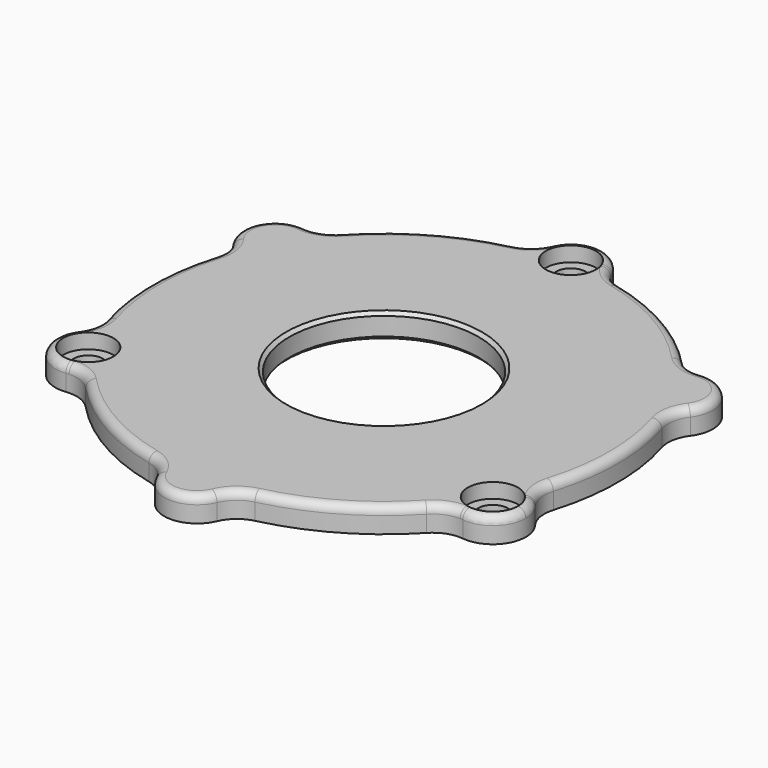
from build123d import *

# Parameters (mm, degrees)
SKETCH020_R         = 11.5
PAD005_DEPTH        = 3
HOLE004_D           = 3.6
HOLE004_CBORE_D     = 6.1
HOLE004_CBORE_DEPTH = 1.8
FILLET001_R         = 1
CHAMFER008_SIZE     = 0.4


with BuildPart() as part:
    # Sketch020 → Pad005 (new body)
    with BuildSketch(Plane.XY):
        with BuildLine():
            ThreePointArc((3.675973, 29.952093), (0, 32.375), (-3.675973, 29.952093))
            ThreePointArc((-6.443598, 27.633687), (-4.783337, 28.462877), (-3.675973, 29.952093))
            ThreePointArc((-6.443598, 27.633687), (-14.1875, 24.573471), (-20.709676, 19.397163))
            ThreePointArc((-24.101286, 18.159532), (-22.257905, 18.37393), (-20.709676, 19.397163))
            ThreePointArc((-24.101286, 18.159532), (-28.037572, 16.1875), (-27.77726, 11.79256))
            ThreePointArc((-27.153274, 8.236524), (-27.041243, 10.088947), (-27.77726, 11.79256))
            ThreePointArc((-27.153274, 8.236524), (-28.375, 0), (-27.153274, -8.236524))
            ThreePointArc((-27.77726, -11.79256), (-27.041243, -10.088947), (-27.153274, -8.236524))
            ThreePointArc((-27.77726, -11.79256), (-28.037572, -16.1875), (-24.101286, -18.159532))
            ThreePointArc((-20.709676, -19.397163), (-22.257905, -18.37393), (-24.101286, -18.159532))
            ThreePointArc((-20.709676, -19.397163), (-14.1875, -24.573471), (-6.443598, -27.633687))
            ThreePointArc((-3.675973, -29.952093), (-4.783337, -28.462877), (-6.443598, -27.633687))
            ThreePointArc((-3.675973, -29.952093), (0, -32.375), (3.675973, -29.952093))
            ThreePointArc((6.443598, -27.633687), (4.783337, -28.462877), (3.675973, -29.952093))
            ThreePointArc((6.443598, -27.633687), (14.1875, -24.573471), (20.709676, -19.397163))
            ThreePointArc((24.101286, -18.159532), (22.257905, -18.37393), (20.709676, -19.397163))
            ThreePointArc((24.101286, -18.159532), (28.037572, -16.1875), (27.77726, -11.79256))
            ThreePointArc((27.153274, -8.236524), (27.041243, -10.088947), (27.77726, -11.79256))
            ThreePointArc((27.153274, -8.236524), (28.375, 0), (27.153274, 8.236524))
            ThreePointArc((27.77726, 11.79256), (27.041243, 10.088947), (27.153274, 8.236524))
            ThreePointArc((27.77726, 11.79256), (28.037572, 16.1875), (24.101286, 18.159532))
            ThreePointArc((20.709676, 19.397163), (22.257905, 18.37393), (24.101286, 18.159532))
            ThreePointArc((20.709676, 19.397163), (14.1875, 24.573471), (6.443598, 27.633687))
            ThreePointArc((3.675973, 29.952093), (4.783337, 28.462877), (6.443598, 27.633687))
        make_face()
        Circle(SKETCH020_R, mode=Mode.SUBTRACT)
    extrude(amount=PAD005_DEPTH)

    # Hole004 (through all)
    with Locations(Plane.XY.offset(3)):
        with Locations((0, 28.375), (24.573471, -14.1875), (-24.573471, -14.1875)):
            CounterBoreHole(HOLE004_D / 2, HOLE004_CBORE_D / 2, HOLE004_CBORE_DEPTH)

    # Fillet001
    fillet001_edges = [part.edges().sort_by_distance(p)[0] for p in [
        (-28.037572, -16.1875, 3),
    ]]
    fillet(fillet001_edges, radius=FILLET001_R)

    # Chamfer008
    chamfer008_edges = [part.edges().sort_by_distance(p)[0] for p in [
        (-11.5, 0, 3),
        (-11.5, 0, 0),
    ]]
    chamfer(chamfer008_edges, length=CHAMFER008_SIZE)


with BuildPart() as part_1:
    # Body007 placement: moved
    add(part.part.moved(Location((0, 0, 12))))


solid = part_1.part
